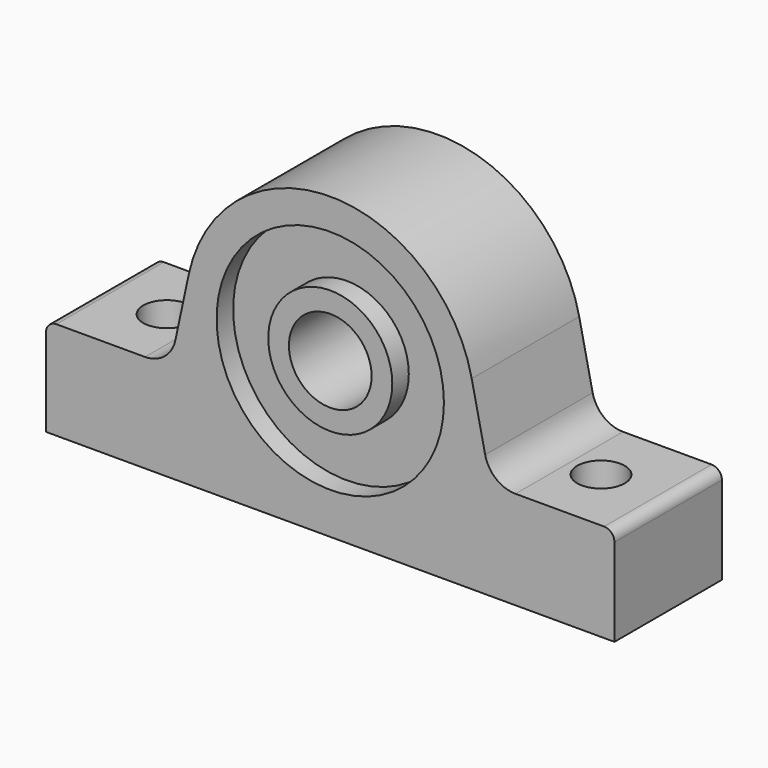
from build123d import *

# Parameters (mm, degrees)
SKETCH_R      = 4
PAD_DEPTH     = 6.5
SKETCH001_R   = 11
SKETCH001_R_2 = 6
POCKET_DEPTH  = 2
FILLET_R      = 3
FILLET001_R   = 1
SKETCH002_R   = 2.3
HOLE_DEPTH    = 25


with BuildPart() as part:
    # Sketch → Pad (new body, symmetric)
    with BuildSketch(Plane.XZ):
        with BuildLine():
            ThreePointArc((13.688033, 2.939003), (0, 14), (-13.688033, 2.939003))
            Line((-13.688033, 2.939003), (-15.5, -5.5))
            Line((-15.5, -5.5), (-27.5, -5.5))
            Line((-27.5, -5.5), (-27.5, -15))
            Line((-27.5, -15), (27.5, -15))
            Line((27.5, -15), (27.5, -5.5))
            Line((27.5, -5.5), (15.5, -5.5))
            Line((15.5, -5.5), (13.688033, 2.939003))
        make_face()
        Circle(SKETCH_R, mode=Mode.SUBTRACT)
    extrude(amount=PAD_DEPTH, both=True)

    # Sketch001 (on Face11 of Pad) → Pocket (cut)
    with BuildSketch(Plane.XZ.offset(6.5)):
        Circle(SKETCH001_R)
        Circle(SKETCH001_R_2, mode=Mode.SUBTRACT)
    pocket = extrude(amount=-POCKET_DEPTH, mode=Mode.SUBTRACT)

    # Mirrored: Pocket across XZ
    add(pocket.mirror(Plane.XZ), mode=Mode.SUBTRACT)

    # Fillet
    fillet_edges = [part.edges().sort_by_distance(p)[0] for p in [
        (15.5, 0, -5.5),
        (-15.5, 0, -5.5),
    ]]
    fillet(fillet_edges, radius=FILLET_R)

    # Fillet001
    fillet001_edges = [part.edges().sort_by_distance(p)[0] for p in [
        (-27.5, 0, -5.5),
        (27.5, 0, -5.5),
    ]]
    fillet(fillet001_edges, radius=FILLET001_R)

    # Sketch002 (on Face13 of Fillet001) → Hole (cut)
    with BuildSketch(Plane(origin=(0, 0, -5.5), x_dir=(-1, 0, 0), z_dir=(0, 0, 1))):
        with Locations((-21, 0)):
            Circle(SKETCH002_R)
        with Locations((21, 0)):
            Circle(SKETCH002_R)
    extrude(amount=-HOLE_DEPTH, mode=Mode.SUBTRACT)


solid = part.part
